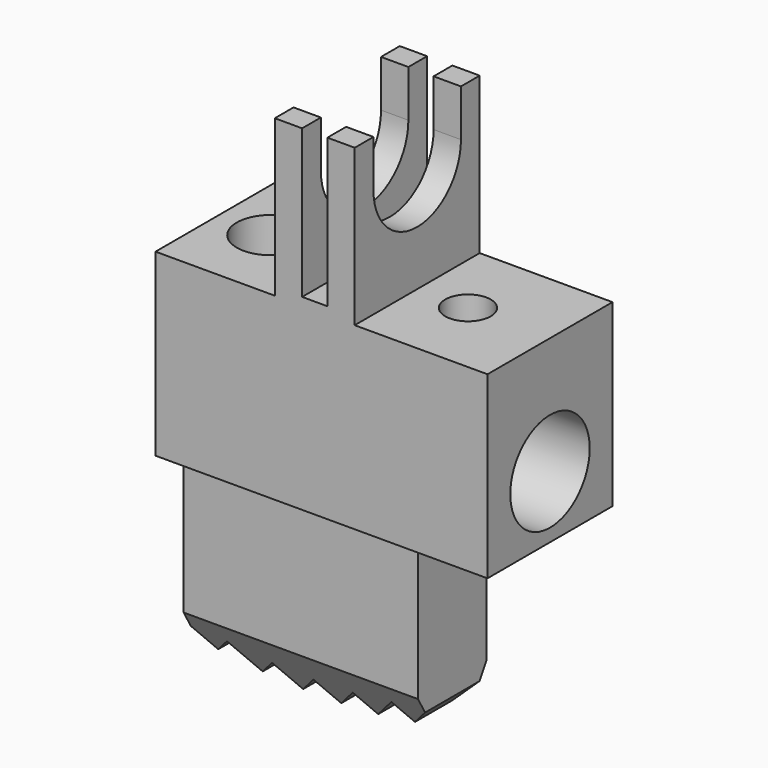
from build123d import *

# Parameters (mm, degrees)
F1_DEPTH    = 2
F0_W        = 6
F0_H        = 5.0999999046
F2_DEPTH    = 1.1
F3_W        = 2.7999999523
F3_H        = 0.2000000477
F4_DEPTH    = 2.0463333095
F5_R        = 1.2711666667
F6_DEPTH    = 8.5
F7_R        = 0.5833333333
F8_DEPTH    = 3
F9_R        = 0.8728333333
F10_DEPTH   = 7.7
F11_SIZE2   = 0.692820323
F11_SIZE    = 1.2
F11_2_SIZE2 = 0.692820323
F11_2_SIZE  = 1.2
F13_DEPTH   = 12.5
F14_SCALE   = 3


with BuildPart() as f1:
    # F0 (on Front) → F1 (new body, symmetric)
    with BuildSketch(Plane.XZ):
        Polygon((-6, 5.0999999046), (0, 5.0999999046), (2.5, 5.0999999046), (2.5, 9.6999998093), (-0.9000000954, 9.6999998093), (-0.9000000954, 13.6999998093), (-1.6000000834, 13.6999998093), (-1.6000000834, 9.8999998569), (-2.2463334168, 9.8999998569), (-2.2463334168, 13.6999998093), (-2.9463334049, 13.6999998093), (-2.9463334049, 9.6999998093), (-6, 9.6999998093), align=None)
    extrude(amount=F1_DEPTH, both=True)

    # F0 (on Front) → F2 (join, symmetric)
    with BuildSketch(Plane.XZ):
        with Locations((-3, 2.5499999523)):
            Rectangle(F0_W, F0_H)
    extrude(amount=F2_DEPTH, both=True)

    # F3 (on face) → F4 (cut, through all)
    with BuildSketch(Plane.YZ.offset(-0.9000000954)):
        with Locations((0, 13.7999998331)):
            Rectangle(F3_W, F3_H)
        with BuildLine():
            Line((-1.3999999762, 13.6999998093), (-1.3999999762, 12.4999998808))
            ThreePointArc((-1.3999999762, 12.4999998808), (0, 11.0999999046), (1.3999999762, 12.4999998808))
            Line((1.3999999762, 12.4999998808), (1.3999999762, 13.6999998093))
            Line((1.3999999762, 13.6999998093), (-1.3999999762, 13.6999998093))
        make_face()
    extrude(amount=-F4_DEPTH, mode=Mode.SUBTRACT)

    # F5 (on face) → F6 (cut)
    with BuildSketch(Plane.YZ.offset(2.5)):
        with Locations((0, 6.6999998093)):
            Circle(F5_R)
    extrude(amount=-F6_DEPTH, mode=Mode.SUBTRACT)

    # F7 (on face) → F8 (cut)
    with BuildSketch(Plane.XY.offset(9.6999998093)):
        with Locations((0.3999998569, 0)):
            Circle(F7_R)
    extrude(amount=-F8_DEPTH, mode=Mode.SUBTRACT)

    # F9 (on face) → F10 (cut)
    with BuildSketch(Plane.XY.offset(9.6999998093)):
        with Locations((-4.6463334525, 0)):
            Circle(F9_R)
    extrude(amount=-F10_DEPTH, mode=Mode.SUBTRACT)

    # F11
    f11_edges = [f1.edges().sort_by_distance(p)[0] for p in [
        (-3, -1.1, 0),
    ]]
    f11_side = f1.faces().sort_by_distance((-3, -1.1, 2.55))[0]
    chamfer(f11_edges, length=F11_SIZE, length2=F11_SIZE2, reference=f11_side)

    # F11#2
    f11_2_edges = [f1.edges().sort_by_distance(p)[0] for p in [
        (-3, 1.1, 0),
    ]]
    f11_2_side = f1.faces().sort_by_distance((-3, 1.1, 2.55))[0]
    chamfer(f11_2_edges, length=F11_2_SIZE, length2=F11_2_SIZE2, reference=f11_2_side)

    # F12 (on Front) → F13 (cut, symmetric)
    with BuildSketch(Plane.XZ):
        Polygon((-2.5119182901, 0.0119182901), (-3, 0.5), (-3.4880817099, 0.0119182901), (-4.0324307496, 0.5562673297), (-4.4787575401, 0.1099405392), (-5.1049532346, 0.7361362337), (-5.518700193, 0.3223892754), (-6, 0.8036890823), (-6, 0), (0, 0), (0, 0.8036890823), (-0.481299807, 0.3223892754), (-0.8950467654, 0.7361362337), (-1.5212424599, 0.1099405392), (-1.9675692504, 0.5562673297), align=None)
    extrude(amount=F13_DEPTH, both=True, mode=Mode.SUBTRACT)


with BuildPart() as f1_1:
    # F14: moved
    add(f1.part.scale(F14_SCALE))


solid = f1_1.part
